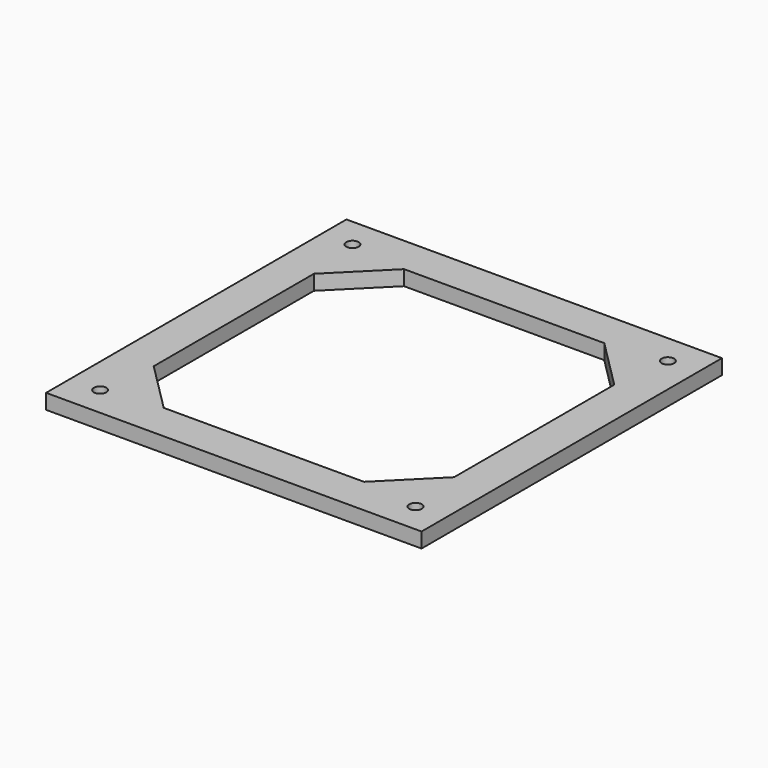
from build123d import *

# Parameters (mm, degrees)
SKETCH002_W          = 150
SKETCH002_H          = 150
PAD002_DEPTH         = 6
POCKET_DEPTH         = 0.001
POCKET_DEPTH_BACK    = 6.001
SKETCH004_R          = 2.5
POCKET001_DEPTH      = 6.001
POCKET001_DEPTH_BACK = 0.001


with BuildPart() as part:
    # Sketch002 → Pad002 (new body)
    with BuildSketch(Plane.XY):
        Rectangle(SKETCH002_W, SKETCH002_H)
    extrude(amount=PAD002_DEPTH)

    # Sketch003 → Pocket (cut, two sides)
    with BuildSketch(Plane.XY) as pocket_sk:
        Polygon((-60, 40), (-40, 60), (40, 60), (60, 40), (60, -40), (40, -60), (-40, -60), (-60, -40), align=None)
    extrude(amount=-POCKET_DEPTH, mode=Mode.SUBTRACT)
    extrude(pocket_sk.sketch, amount=POCKET_DEPTH_BACK, mode=Mode.SUBTRACT)

    # Sketch004 (on Face5 of Pad002) → Pocket001 (cut, two sides)
    with BuildSketch(Plane(origin=(0, 0, 0), x_dir=(1, 0, 0), z_dir=(0, 0, -1))) as pocket001_sk:
        with Locations((-63, 63)):
            Circle(SKETCH004_R)
        with Locations((63, 63)):
            Circle(SKETCH004_R)
        with Locations((63, -63)):
            Circle(SKETCH004_R)
        with Locations((-63, -63)):
            Circle(SKETCH004_R)
    extrude(amount=-POCKET001_DEPTH, mode=Mode.SUBTRACT)
    extrude(pocket001_sk.sketch, amount=POCKET001_DEPTH_BACK, mode=Mode.SUBTRACT)


solid = part.part
